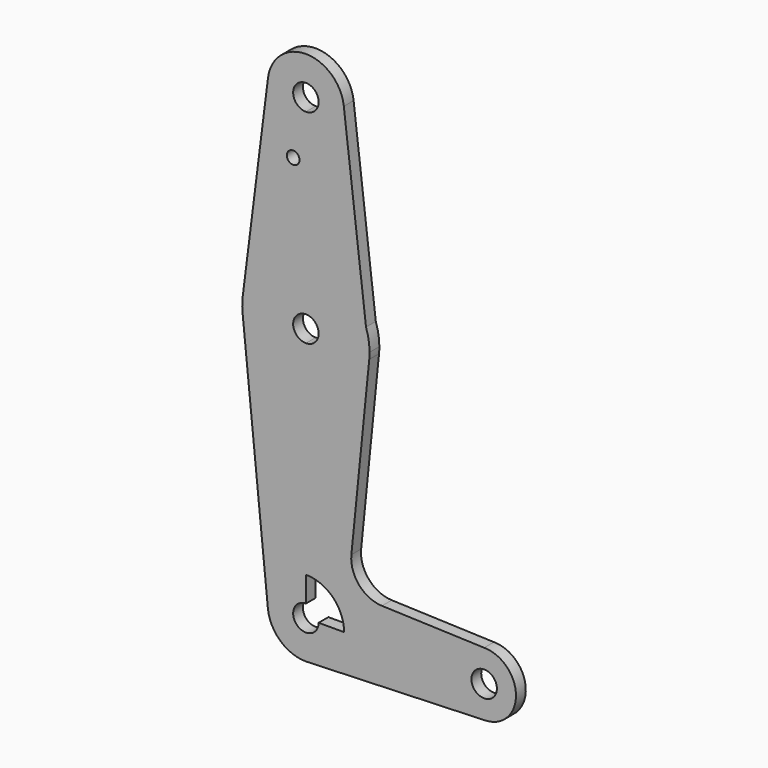
from build123d import *

# Parameters (mm, degrees)
F0_R     = 1.5875
F1_DEPTH = 3.048


with BuildPart() as f1:
    # F0 (on Front) → F1 (new body)
    with BuildSketch(Plane.XZ):
        with BuildLine():
            Line((9.525, 0), (3.175, 0))
            ThreePointArc((3.175, 0), (-2.2450640303, -2.2450640303), (0, 3.175))
            Line((0, 3.175), (0, 9.525))
            ThreePointArc((0, 9.525), (-7.063929059, 6.3895642457), (-9.4772553384, -0.9525))
            ThreePointArc((-9.4772553384, -0.9525), (-6.3895642457, -7.063929059), (0, -9.525))
            Line((0, -9.525), (0.6773435479, -9.500885786))
            ThreePointArc((0.6773435479, -9.500885786), (6.9705567315, -6.4912990883), (9.525, 0))
        make_face()
        with BuildLine():
            ThreePointArc((0, 9.525), (6.7351920908, 6.7351920908), (9.525, 0))
            Line((9.525, 0), (36.5125, 0))
            ThreePointArc((36.5125, 0), (38.8373399243, 5.6126600757), (44.45, 7.9375))
            Line((44.45, 7.9375), (18.9664742022, 8.8511343208))
            ThreePointArc((18.9664742022, 8.8511343208), (13.260685791, 11.5695707689), (11.3409723165, 17.5912497948))
            Line((11.3409723165, 17.5912497948), (15.7954255641, 61.9125))
            ThreePointArc((15.7954255641, 61.9125), (10.6492737428, 51.7267849017), (0, 47.625))
            Line((0, 47.625), (0, 9.525))
        make_face()
        with BuildLine():
            Line((36.5125, 0), (9.525, 0))
            ThreePointArc((9.525, 0), (6.9705567315, -6.4912990883), (0.6773435479, -9.500885786))
            Line((0.6773435479, -9.500885786), (44.7324052746, -7.9324746146))
            ThreePointArc((44.7324052746, -7.9324746146), (38.9380895153, -5.7116327839), (36.5125, 0))
        make_face()
        with BuildLine():
            ThreePointArc((-9.4772553384, -0.9525), (-7.063929059, 6.3895642457), (0, 9.525))
            Line((0, 9.525), (0, 47.625))
            ThreePointArc((0, 47.625), (-10.6492737428, 51.7267849017), (-15.7954255641, 61.9125))
            Line((-15.7954255641, 61.9125), (-9.4772553384, -0.9525))
        make_face()
        with BuildLine():
            ThreePointArc((44.45, 7.9375), (38.8373399243, 5.6126600757), (36.5125, 0))
            ThreePointArc((36.5125, 0), (38.9380895153, -5.7116327839), (44.7324052746, -7.9324746146))
            ThreePointArc((44.7324052746, -7.9324746146), (50.1616327839, -5.5119104847), (52.3875, 0))
            ThreePointArc((52.3875, 0), (50.0626600757, 5.6126600757), (44.45, 7.9375))
        make_face()
        with BuildLine():
            ThreePointArc((47.625, 0), (44.45, -3.175), (41.275, 0))
            ThreePointArc((41.275, 0), (44.45, 3.175), (47.625, 0))
        make_face(mode=Mode.SUBTRACT)
        with BuildLine():
            ThreePointArc((0, -9.525), (0.3388863295, -9.5189695375), (0.6773435479, -9.500885786))
            Line((0.6773435479, -9.500885786), (0, -9.525))
        make_face()
        with BuildLine():
            Line((0, 60.325), (0, 47.625))
            ThreePointArc((0, 47.625), (10.6492737428, 51.7267849017), (15.7954255641, 61.9125))
            Line((15.7954255641, 61.9125), (14.9877324754, 68.7329246359))
            ThreePointArc((14.9877324754, 68.7329246359), (9.1908363712, 76.4438847259), (0, 79.375))
            Line((0, 79.375), (0, 66.675))
            ThreePointArc((0, 66.675), (2.2450640303, 65.7450640303), (3.175, 63.5))
            ThreePointArc((3.175, 63.5), (2.2450640303, 61.2549359697), (0, 60.325))
        make_face()
        with BuildLine():
            ThreePointArc((-15.7954255641, 61.9125), (-10.6492737428, 51.7267849017), (0, 47.625))
            Line((0, 47.625), (0, 60.325))
            ThreePointArc((0, 60.325), (-3.175, 63.5), (0, 66.675))
            Line((0, 66.675), (0, 79.375))
            ThreePointArc((0, 79.375), (-10.5003255158, 75.40625), (-15.7504882737, 65.484375))
            ThreePointArc((-15.7504882737, 65.484375), (-15.8737438155, 63.6997054867), (-15.7954255641, 61.9125))
        make_face()
        with BuildLine():
            Line((14.9877324754, 68.7329246359), (15.7954255641, 61.9125))
            ThreePointArc((15.7954255641, 61.9125), (15.8550939106, 62.7052534459), (15.875, 63.5))
            ThreePointArc((15.875, 63.5), (15.6516113875, 66.1538059417), (14.9877324754, 68.7329246359))
        make_face()
        with BuildLine():
            Line((-9.4502929642, 115.490625), (-15.7504882737, 65.484375))
            ThreePointArc((-15.7504882737, 65.484375), (-10.5003255158, 75.40625), (0, 79.375))
            Line((0, 79.375), (0, 104.775))
            ThreePointArc((0, 104.775), (-7.14375, 107.9998046905), (-9.4502929642, 115.490625))
        make_face()
        with Locations((-3.175, 100.0252)):
            Circle(F0_R, mode=Mode.SUBTRACT)
        with BuildLine():
            ThreePointArc((0, 79.375), (9.1908363712, 76.4438847259), (14.9877324754, 68.7329246359))
            Line((14.9877324754, 68.7329246359), (9.4589053806, 115.4201490977))
            ThreePointArc((9.4589053806, 115.4201490977), (9.5084619879, 114.8610486832), (9.525, 114.3))
            ThreePointArc((9.525, 114.3), (6.7351920908, 107.5648079092), (0, 104.775))
            Line((0, 104.775), (0, 79.375))
        make_face()
        with BuildLine():
            ThreePointArc((9.4589053806, 115.4201490977), (0.0355000934, 123.8249338446), (-9.4502929642, 115.490625))
            ThreePointArc((-9.4502929642, 115.490625), (-7.14375, 107.9998046905), (0, 104.775))
            ThreePointArc((0, 104.775), (6.7351920908, 107.5648079092), (9.525, 114.3))
            ThreePointArc((9.525, 114.3), (9.5084619879, 114.8610486832), (9.4589053806, 115.4201490977))
        make_face()
        with BuildLine():
            ThreePointArc((3.175, 114.3), (2.2450640303, 112.0549359697), (0, 111.125))
            ThreePointArc((0, 111.125), (-2.2450640303, 116.5450640303), (3.175, 114.3))
        make_face(mode=Mode.SUBTRACT)
    extrude(amount=F1_DEPTH)


solid = f1.part
